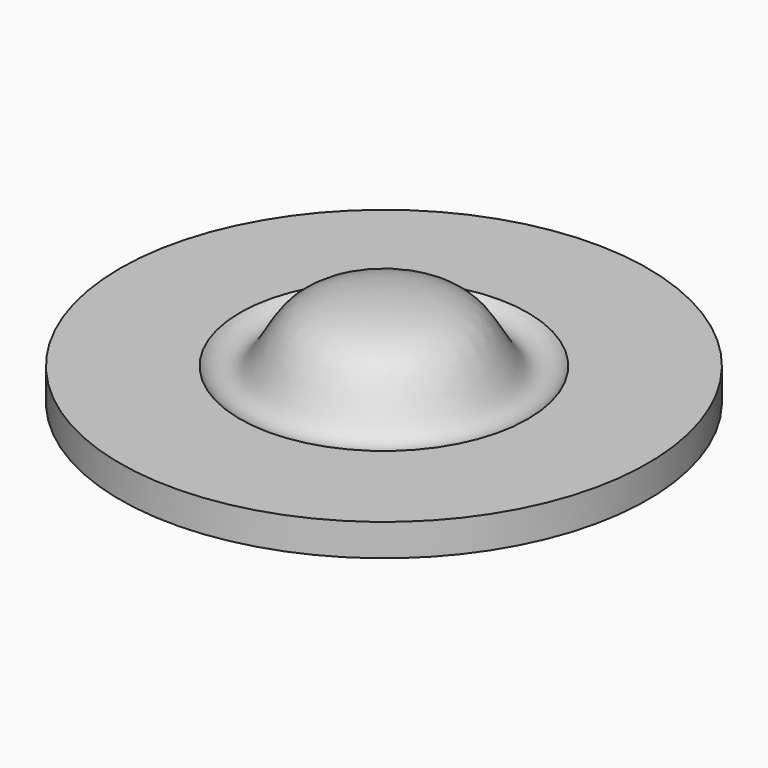
from build123d import *


with BuildPart() as f1:
    # F0 (on Front) → F1 (revolve)
    with BuildSketch(Plane.XZ):
        with BuildLine():
            Line((-11.1125, 12.7), (0, 12.7))
            Line((0, 12.7), (0, 21.9354813044))
            add(Edge.make_bspline(
                [(-28.575, 9.525), (-27.2826813161, 7.7059585601), (-21.1693725575, 6.0937384297), (-17.3460685473, 20.9595560437), (-5.7826509232, 21.9354813044), (0, 21.9354813044)],
                knots=[0, 0, 0, 0, 0.2429095716, 0.5948327317, 1, 1, 1, 1], degree=3))
            Line((-28.575, 9.525), (-52.3875, 9.525))
            Line((-52.3875, 9.525), (-52.3875, 3.175))
            Line((-52.3875, 3.175), (-31.75, 3.175))
            Line((-31.75, 3.175), (-31.75, 0))
            Line((-31.75, 0), (-11.1125, 0))
            Line((-11.1125, 0), (-11.1125, 12.7))
        make_face()
    revolve(axis=Axis((0, 0, 17.3177406522), (0, 0, -1)))


solid = f1.part
